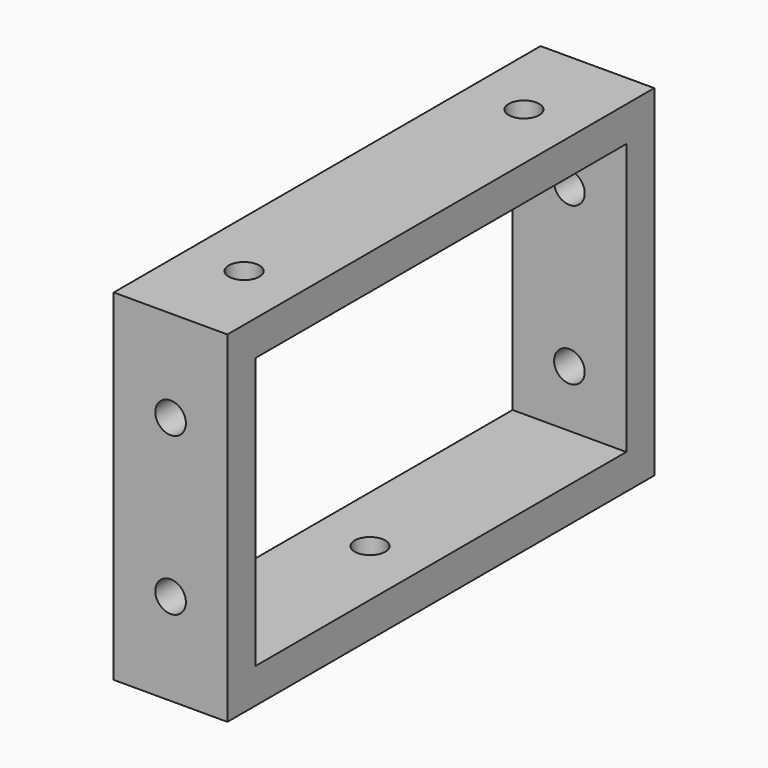
from build123d import *

# Parameters (mm, degrees)
SKETCH077_W     = 13
SKETCH077_H     = 39
SKETCH077_R     = 1.75
PAD053_DEPTH    = 4
SKETCH082_W     = 13
SKETCH082_H     = 4
PAD054_DEPTH    = 53
SKETCH083_W     = 13
SKETCH083_H     = 39
SKETCH083_R     = 1.75
PAD055_DEPTH    = 4
SKETCH084_R     = 1.75
POCKET017_DEPTH = 4
SKETCH085_R     = 1.75
POCKET018_DEPTH = 4


with BuildPart() as part:
    # Sketch077 → Pad053 (new body)
    with BuildSketch(Plane.XZ):
        with Locations((0, -19.7)):
            Rectangle(SKETCH077_W, SKETCH077_H)
        with Locations((0, -10.7)):
            Circle(SKETCH077_R, mode=Mode.SUBTRACT)
        with Locations((0, -28.7)):
            Circle(SKETCH077_R, mode=Mode.SUBTRACT)
    extrude(amount=PAD053_DEPTH)

    # Sketch082 (on Face7 of Pad053) → Pad054 (join)
    with BuildSketch(Plane(origin=(0, 0, 0), x_dir=(1, 0, 0), z_dir=(0, 1, 0))):
        with Locations((0, 37.2)):
            Rectangle(SKETCH082_W, SKETCH082_H)
        with Locations((0, 2.2)):
            Rectangle(SKETCH082_W, SKETCH082_H)
    extrude(amount=PAD054_DEPTH)

    # Sketch083 (on Face12 of Pad054) → Pad055 (join)
    with BuildSketch(Plane(origin=(0, 53, 0), x_dir=(1, 0, 0), z_dir=(0, 1, 0))):
        with Locations((0, 19.7)):
            Rectangle(SKETCH083_W, SKETCH083_H)
        with Locations((0, 28.7)):
            Circle(SKETCH083_R, mode=Mode.SUBTRACT)
        with Locations((0, 10.7)):
            Circle(SKETCH083_R, mode=Mode.SUBTRACT)
    extrude(amount=PAD055_DEPTH)

    # Sketch084 (on Face18 of Pad055) → Pocket017 (cut)
    with BuildSketch(Plane(origin=(0, 0, -4.2), x_dir=(1, 0, 0), z_dir=(0, 0, -1))):
        with Locations((0, -6.5)):
            Circle(SKETCH084_R)
        with Locations((0, -46.5)):
            Circle(SKETCH084_R)
    extrude(amount=-POCKET017_DEPTH, mode=Mode.SUBTRACT)

    # Sketch085 (on Face15 of Pad054) → Pocket018 (cut)
    with BuildSketch(Plane(origin=(0, 0, -39.2), x_dir=(1, 0, 0), z_dir=(0, 0, -1))):
        with Locations((0, -24.5)):
            Circle(SKETCH085_R)
    extrude(amount=-POCKET018_DEPTH, mode=Mode.SUBTRACT)


with BuildPart() as part_1:
    # Body018 placement: moved
    add(part.part.moved(Location((0, -26.5, 0))))


solid = part_1.part
